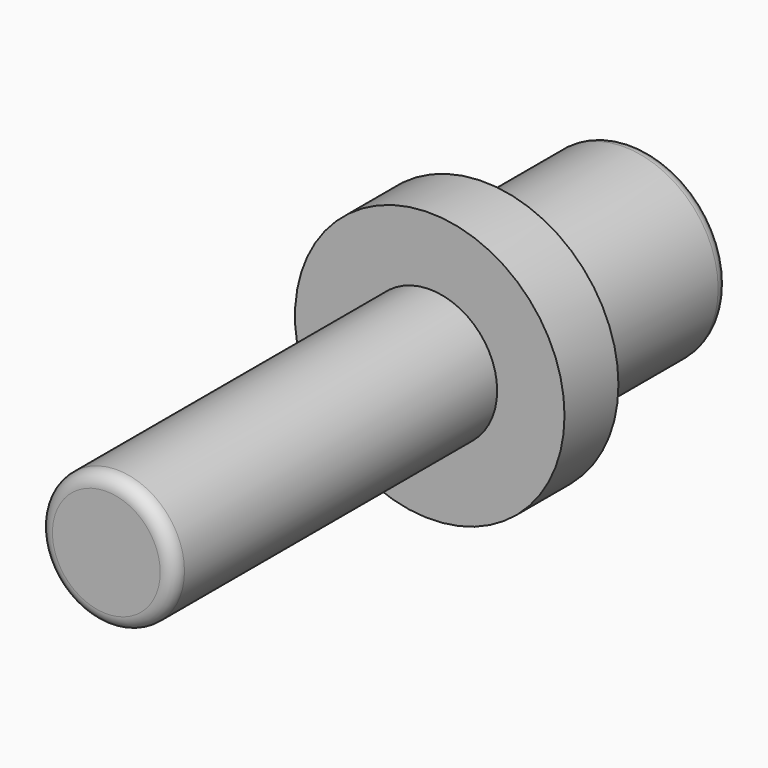
from build123d import *

# Parameters (mm, degrees)
F0_R     = 2.5
F1_DEPTH = 15
F0_R_2   = 5
F0_R_3   = 3.5
F2_DEPTH = 2.5
F3_DEPTH = 9.5
F4_R     = 0.5
F5_R     = 0.5


with BuildPart() as f1:
    # F0 (on Front) → F1 (new body)
    with BuildSketch(Plane.XZ):
        Circle(F0_R)
    extrude(amount=F1_DEPTH)

    # F0 (on Front) → F2 (join)
    with BuildSketch(Plane.XZ):
        Circle(F0_R_2)
        Circle(F0_R_3, mode=Mode.SUBTRACT)
        Circle(F0_R_3)
        Circle(F0_R, mode=Mode.SUBTRACT)
        Circle(F0_R)
    extrude(amount=-F2_DEPTH)

    # F0 (on Front) → F3 (join)
    with BuildSketch(Plane.XZ):
        Circle(F0_R_3)
        Circle(F0_R, mode=Mode.SUBTRACT)
        Circle(F0_R)
    extrude(amount=-F3_DEPTH)

    # F4
    f4_edges = [f1.edges().sort_by_distance(p)[0] for p in [
        (-3.5, 9.5, 0),
    ]]
    fillet(f4_edges, radius=F4_R)

    # F5
    f5_edges = [f1.edges().sort_by_distance(p)[0] for p in [
        (-2.5, -15, 0),
    ]]
    fillet(f5_edges, radius=F5_R)


solid = f1.part
